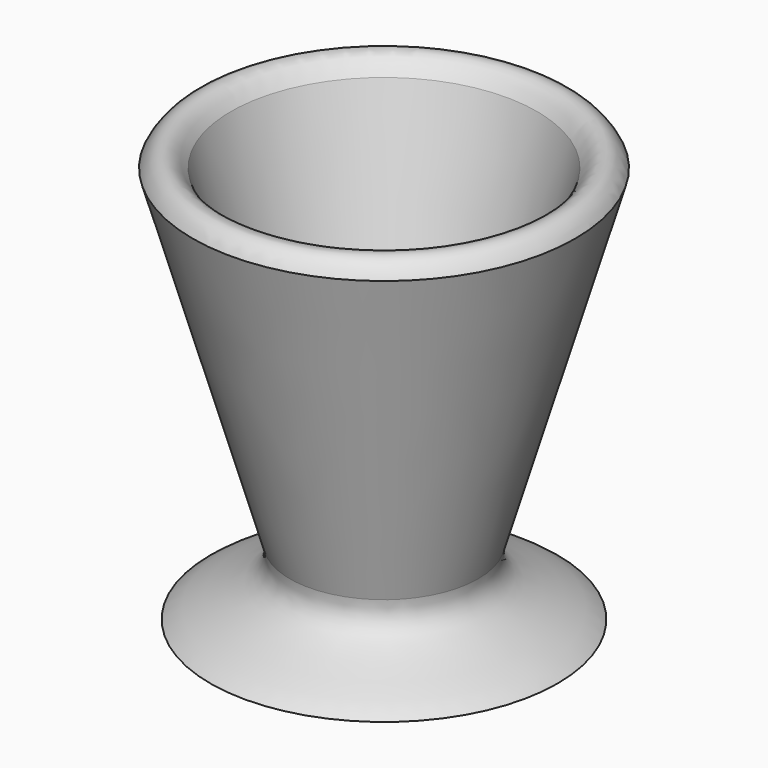
from build123d import *


with BuildPart() as f1:
    # F0 (on Front) → F1 (revolve)
    with BuildSketch(Plane.XZ):
        with BuildLine():
            add(Edge.make_bspline(
                [(26.26512, -39.80808), (23.802767, -50.888672), (40.628858, -51.709462), (48.426315, -58.275741)],
                knots=[0, 0, 0, 0, 28.84741, 28.84741, 28.84741, 28.84741], degree=3))
            Line((26.26512, -39.80808), (53.351026, 52.53024))
            add(Edge.make_bspline(
                [(42.680822, 52.53024), (46.784744, 59.506912), (51.299065, 57.044555), (53.351026, 52.53024)],
                knots=[0, 0, 0, 0, 10.670204, 10.670204, 10.670204, 10.670204], degree=3))
            Line((42.680822, 52.53024), (15.594916, -39.80808))
            Line((15.594916, -39.80808), (0, -39.80808))
            Line((0, -39.80808), (0, -58.275741))
            Line((0, -58.275741), (48.426315, -58.275741))
        make_face()
    revolve(axis=Axis((0, 0, -49.04191), (0, 0, 1)))


solid = f1.part
